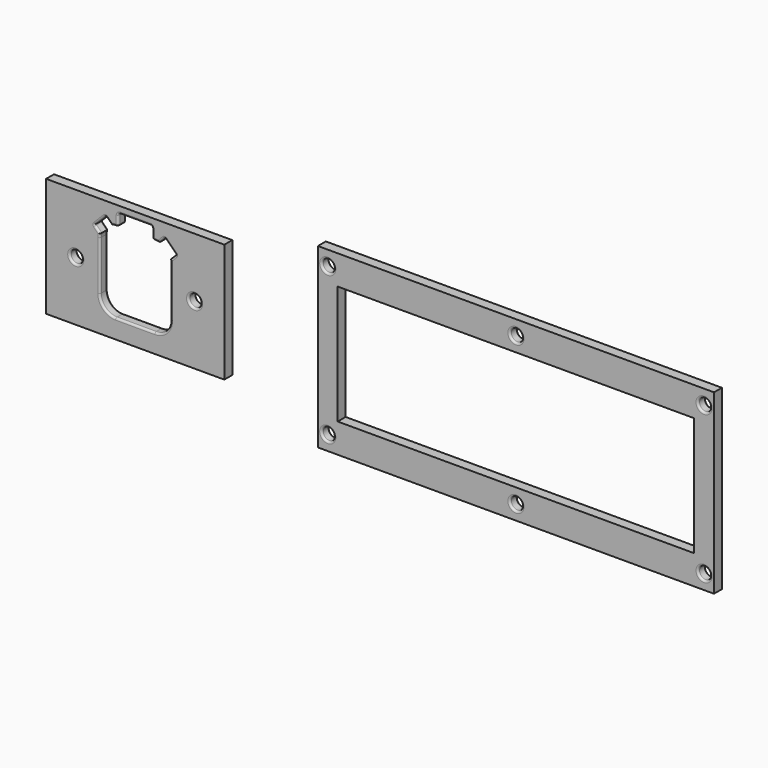
from build123d import *

# Parameters (mm, degrees)
F0_W     = 57.15
F0_H     = 38.1
F0_R     = 4.445
F0_R_2   = 1.9558
F1_DEPTH = 3.175
F0_W_2   = 127
F0_H_2   = 56.8597277675
F0_W_3   = 114.3
F3_R     = 0.635
F4_R     = 0.635


with BuildPart() as f1:
    # F0 (on Front) → F1 (new body)
    with BuildSketch(Plane.XZ):
        Rectangle(F0_W, F0_H)
        with Locations((-19.05, 0)):
            Circle(F0_R, mode=Mode.SUBTRACT)
        with Locations((19.05, 0)):
            Circle(F0_R, mode=Mode.SUBTRACT)
        with BuildLine():
            ThreePointArc((-7.6013007491, 12.7809031975), (-6.9495730565, 12.9105398958), (-6.2865, 12.954))
            Line((-6.2865, 12.954), (-6.096, 12.954))
            ThreePointArc((-6.096, 12.954), (-5.6469871939, 13.1399871939), (-5.461, 13.589))
            Line((-5.461, 13.589), (-5.461, 16.129))
            ThreePointArc((-5.461, 16.129), (-5.2750128061, 16.5780128061), (-4.826, 16.764))
            Line((-4.826, 16.764), (4.826, 16.764))
            ThreePointArc((4.826, 16.764), (5.2750128061, 16.5780128061), (5.461, 16.129))
            Line((5.461, 16.129), (5.461, 13.589))
            ThreePointArc((5.461, 13.589), (5.6469871939, 13.1399871939), (6.096, 12.954))
            Line((6.096, 12.954), (6.2865, 12.954))
            ThreePointArc((6.2865, 12.954), (6.9495730565, 12.9105398958), (7.6013007491, 12.7809031975))
            Line((7.6013007491, 12.7809031975), (9.2737338617, 14.4533363102))
            ThreePointArc((9.2737338617, 14.4533363102), (9.4740326989, 14.5363028051), (9.6743315361, 14.4533363102))
            Line((9.6743315361, 14.4533363102), (12.8658363102, 11.2618315361))
            ThreePointArc((12.8658363102, 11.2618315361), (12.9488028051, 11.0615326989), (12.8658363102, 10.8612338617))
            Line((12.8658363102, 10.8612338617), (11.1934031975, 9.1888007491))
            ThreePointArc((11.1934031975, 9.1888007491), (11.3230398958, 8.5370730565), (11.3665, 7.874))
            Line((11.3665, 7.874), (11.3665, -7.874))
            ThreePointArc((11.3665, -7.874), (9.8786024484, -11.4661024484), (6.2865, -12.954))
            Line((6.2865, -12.954), (-6.2865, -12.954))
            ThreePointArc((-6.2865, -12.954), (-9.8786024484, -11.4661024484), (-11.3665, -7.874))
            Line((-11.3665, -7.874), (-11.3665, 7.874))
            ThreePointArc((-11.3665, 7.874), (-11.3230398958, 8.5370730565), (-11.1934031975, 9.1888007491))
            Line((-11.1934031975, 9.1888007491), (-12.8658363102, 10.8612338617))
            ThreePointArc((-12.8658363102, 10.8612338617), (-12.9488028051, 11.0615326989), (-12.8658363102, 11.2618315361))
            Line((-12.8658363102, 11.2618315361), (-9.6743315361, 14.4533363102))
            ThreePointArc((-9.6743315361, 14.4533363102), (-9.4740326989, 14.5363028051), (-9.2737338617, 14.4533363102))
            Line((-9.2737338617, 14.4533363102), (-7.6013007491, 12.7809031975))
        make_face(mode=Mode.SUBTRACT)
        with Locations((19.05, 0)):
            Circle(F0_R)
        with Locations((19.05, 0)):
            Circle(F0_R_2, mode=Mode.SUBTRACT)
        with Locations((-19.05, 0)):
            Circle(F0_R)
        with Locations((-19.05, 0)):
            Circle(F0_R_2, mode=Mode.SUBTRACT)
    extrude(amount=F1_DEPTH)

    # F3
    f3_edges = [f1.edges().sort_by_distance(p)[0] for p in [
        (0, -3.175, -12.954),
        (9.878602, -3.175, -11.466102),
        (11.3665, -3.175, 0),
        (11.32304, -3.175, 8.537073),
        (12.02962, -3.175, 10.025017),
        (11.270084, -3.175, 12.857584),
        (9.474033, -3.175, 14.536303),
        (8.437517, -3.175, 13.61712),
        (6.949573, -3.175, 12.91054),
        (-6.19125, -3.175, 12.954),
        (-6.949573, -3.175, 12.91054),
        (-8.437517, -3.175, 13.61712),
        (-9.474033, -3.175, 14.536303),
        (-11.270084, -3.175, 12.857584),
        (-12.948803, -3.175, 11.061533),
        (-12.02962, -3.175, 10.025017),
        (-11.32304, -3.175, 8.537073),
        (-11.3665, -3.175, 0),
        (-9.878602, -3.175, -11.466102),
        (11.3665, 0, 0),
        (11.32304, 0, 8.537073),
        (12.02962, 0, 10.025017),
        (9.878602, 0, -11.466102),
        (-12.02962, 0, 10.025017),
        (-6.19125, 0, 12.954),
        (17.0942, 0, 0),
        (-21.0058, 0, 0),
        (-21.0058, -3.175, 0),
        (17.0942, -3.175, 0),
    ]]
    fillet(f3_edges, radius=F3_R)


with BuildPart() as f1b:
    # F0 (on Front) → F1, piece 2 (new body)
    with BuildSketch(Plane.XZ):
        with Locations((122.0718666662, 0)):
            Rectangle(F0_W_2, F0_H_2)
        with Locations((61.7468666662, -23.7399319419)):
            Circle(F0_R_2, mode=Mode.SUBTRACT)
        with Locations((122.0718666662, -23.7399319419)):
            Circle(F0_R_2, mode=Mode.SUBTRACT)
        with Locations((182.3968666662, -23.7399319419)):
            Circle(F0_R_2, mode=Mode.SUBTRACT)
        with Locations((61.7468666662, 23.7399319419)):
            Circle(F0_R_2, mode=Mode.SUBTRACT)
        with Locations((122.0718666662, 0)):
            Rectangle(F0_W_3, F0_H, mode=Mode.SUBTRACT)
        with Locations((122.0718666662, 23.7399319419)):
            Circle(F0_R_2, mode=Mode.SUBTRACT)
        with Locations((182.3968666662, 23.7399319419)):
            Circle(F0_R_2, mode=Mode.SUBTRACT)
    extrude(amount=F1_DEPTH)

    # F4
    f4_edges = [f1b.edges().sort_by_distance(p)[0] for p in [
        (59.791067, 0, 23.739932),
        (120.116067, 0, 23.739932),
        (180.441067, 0, 23.739932),
        (180.441067, 0, -23.739932),
        (120.116067, 0, -23.739932),
        (59.791067, 0, -23.739932),
        (59.791067, -3.175, -23.739932),
        (120.116067, -3.175, -23.739932),
        (180.441067, -3.175, -23.739932),
        (180.441067, -3.175, 23.739932),
        (120.116067, -3.175, 23.739932),
        (59.791067, -3.175, 23.739932),
    ]]
    fillet(f4_edges, radius=F4_R)


solid = Compound([f1.part, f1b.part])
